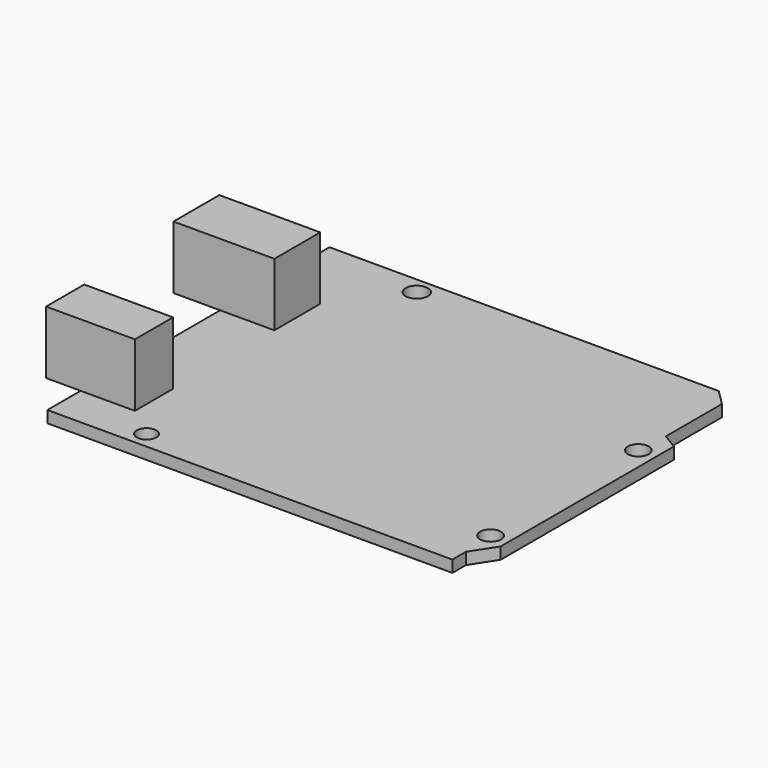
from build123d import *

# Parameters (mm, degrees)
F0_R     = 1.472841
F0_R_2   = 1.5875
F0_R_3   = 1.679588
F1_DEPTH = 1.778
F2_W     = 7.063547
F2_H     = 8.672543
F2_W_2   = 5.23132
F2_H_2   = 7.2136
F2_W_3   = 8.205013
F2_W_4   = 8.20528
F3_DEPTH = 9.525


with BuildPart() as f1:
    # F0 (on Top) → F1 (new body)
    with BuildSketch(Plane.XY):
        Polygon((0, 53.34), (0, 0), (61.270186, 0), (61.270186, 2.54), (63.626732, 6.199072), (63.626732, 38.965072), (61.270186, 40.378999), (61.270186, 50.983454), (58.91364, 53.34), align=None)
        with Locations((12.961001, 2.54)):
            Circle(F0_R, mode=Mode.SUBTRACT)
        with Locations((60.96, 7.62)):
            Circle(F0_R_2, mode=Mode.SUBTRACT)
        with Locations((15.24, 50.8)):
            Circle(F0_R_3, mode=Mode.SUBTRACT)
        with Locations((60.96, 35.56)):
            Circle(F0_R_2, mode=Mode.SUBTRACT)
    extrude(amount=F1_DEPTH)


with BuildPart() as f3:
    # F2 (on face) → F3 (new body)
    with BuildSketch(Plane.XY.offset(1.778)):
        with Locations((-3.531773, 37.0026)):
            Rectangle(F2_W, F2_H)
        with Locations((-2.61566, 9.889059)):
            Rectangle(F2_W_2, F2_H_2)
        with Locations((4.102506, 37.0026)):
            Rectangle(F2_W_3, F2_H)
        with Locations((4.10264, 9.889059)):
            Rectangle(F2_W_4, F2_H_2)
    extrude(amount=F3_DEPTH)


solid = Compound([f1.part, f3.part])
